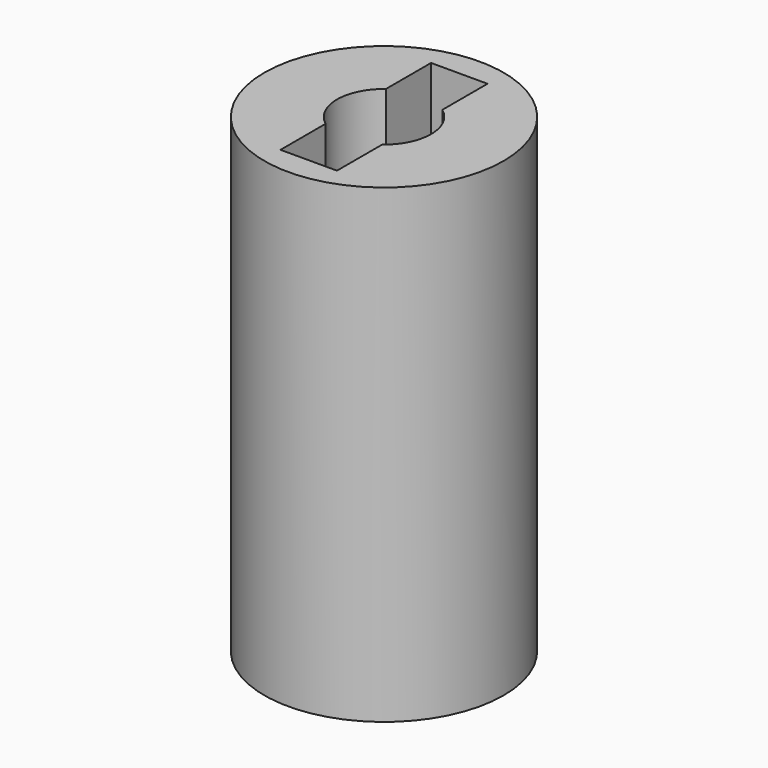
from build123d import *

# Parameters (mm, degrees)
SKETCH_R     = 12.715244
SKETCH_W     = 6
SKETCH_H     = 20
PAD_DEPTH    = 50
SKETCH001_R  = 5
POCKET_DEPTH = 30


with BuildPart() as part:
    # Sketch → Pad (new body)
    with BuildSketch(Plane.XY):
        with Locations((-51, 27)):
            Circle(SKETCH_R)
        with Locations((-51, 27)):
            Rectangle(SKETCH_W, SKETCH_H, mode=Mode.SUBTRACT)
    extrude(amount=PAD_DEPTH)

    # Sketch001 (on Face7 of Pad) → Pocket (cut)
    with BuildSketch(Plane.XY.offset(50)):
        with Locations((-51, 27)):
            Circle(SKETCH001_R)
    extrude(amount=-POCKET_DEPTH, mode=Mode.SUBTRACT)


solid = part.part
